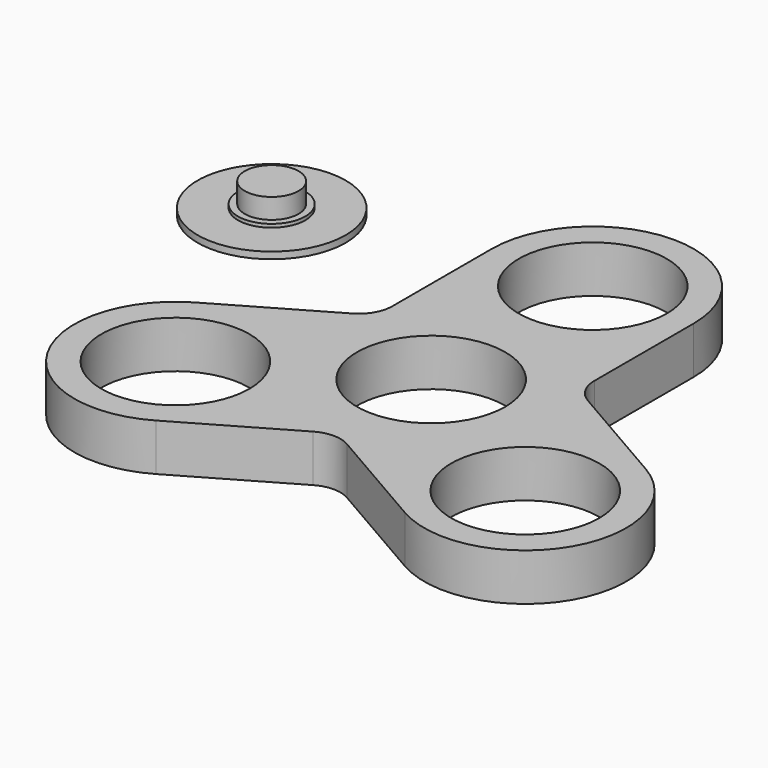
from build123d import *

# Parameters (mm, degrees)
F0_R     = 11
F0_R_2   = 15
F1_DEPTH = 7
F0_R_3   = 4
F2_DEPTH = 4.5
F0_R_4   = 5
F3_DEPTH = 1.5
F4_DEPTH = 1


with BuildPart() as f1:
    # F0 (on Top) → F1 (new body)
    with BuildSketch(Plane.XY):
        with BuildLine():
            Line((15, 11.547005), (15, 30))
            ThreePointArc((15, 30), (0, 45), (-15, 30))
            Line((-15, 30), (-15, 11.547005))
            ThreePointArc((-15, 11.547005), (-15.669873, 9.047005), (-17.5, 7.216878))
            Line((-17.5, 7.216878), (-33.480762, -2.009619))
            ThreePointArc((-33.480762, -2.009619), (-38.971143, -22.5), (-18.480762, -27.990381))
            Line((-18.480762, -27.990381), (-2.5, -18.763884))
            ThreePointArc((-2.5, -18.763884), (0, -18.094011), (2.5, -18.763884))
            Line((2.5, -18.763884), (18.480762, -27.990381))
            ThreePointArc((18.480762, -27.990381), (38.971143, -22.5), (33.480762, -2.009619))
            Line((33.480762, -2.009619), (17.5, 7.216878))
            ThreePointArc((17.5, 7.216878), (15.669873, 9.047005), (15, 11.547005))
        make_face()
        with Locations((-25.980762, -15)):
            Circle(F0_R, mode=Mode.SUBTRACT)
        with Locations((25.980762, -15)):
            Circle(F0_R, mode=Mode.SUBTRACT)
        Circle(F0_R_2, mode=Mode.SUBTRACT)
        with Locations((0, 30)):
            Circle(F0_R, mode=Mode.SUBTRACT)
        Circle(F0_R_2)
        Circle(F0_R, mode=Mode.SUBTRACT)
    extrude(amount=F1_DEPTH)


with BuildPart() as f2:
    # F0 (on Top) → F2 (new body)
    with BuildSketch(Plane.XY):
        with Locations((-48.568692, 31.109964)):
            Circle(F0_R_3)
    extrude(amount=F2_DEPTH)

    # F0 (on Top) → F3 (join)
    with BuildSketch(Plane.XY):
        with Locations((-48.568692, 31.109964)):
            Circle(F0_R_4)
        with Locations((-48.568692, 31.109964)):
            Circle(F0_R_3, mode=Mode.SUBTRACT)
    extrude(amount=F3_DEPTH)

    # F0 (on Top) → F4 (join)
    with BuildSketch(Plane.XY):
        with Locations((-48.568692, 31.109964)):
            Circle(F0_R)
        with Locations((-48.568692, 31.109964)):
            Circle(F0_R_4, mode=Mode.SUBTRACT)
    extrude(amount=F4_DEPTH)


solid = Compound([f1.part, f2.part])
